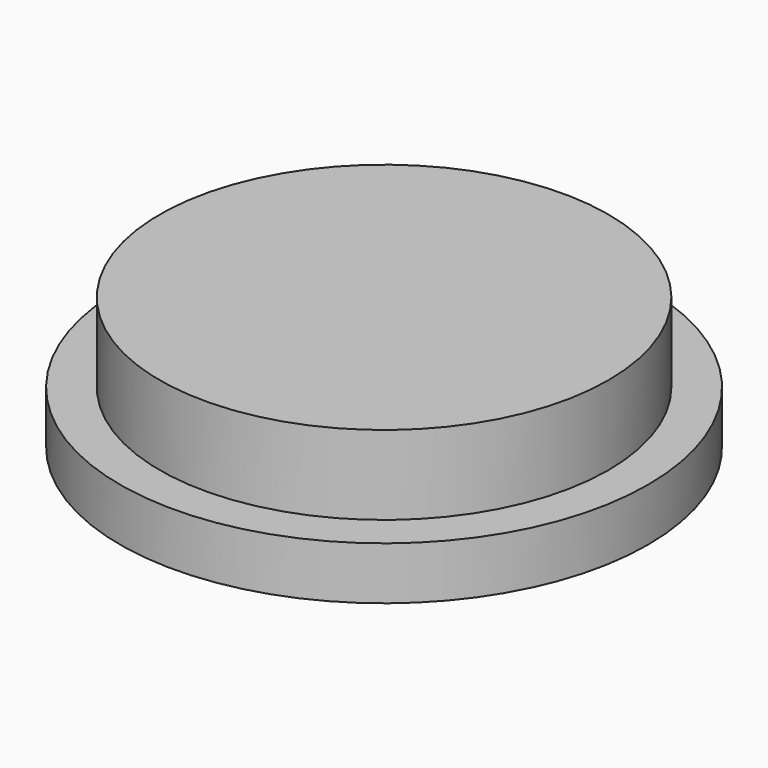
from build123d import *

# Parameters (mm, degrees)
F0_R     = 10
F1_DEPTH = 2.5
F2_R     = 10
F2_R_2   = 8.5
F3_DEPTH = 3


with BuildPart() as f1:
    # F0 (on Top) → F1 (new body, symmetric)
    with BuildSketch(Plane.XY):
        Circle(F0_R)
    extrude(amount=F1_DEPTH, both=True)

    # F2 (on face) → F3 (cut)
    with BuildSketch(Plane.XY.offset(2.5)):
        Circle(F2_R)
        Circle(F2_R_2, mode=Mode.SUBTRACT)
    extrude(amount=-F3_DEPTH, mode=Mode.SUBTRACT)


solid = f1.part
